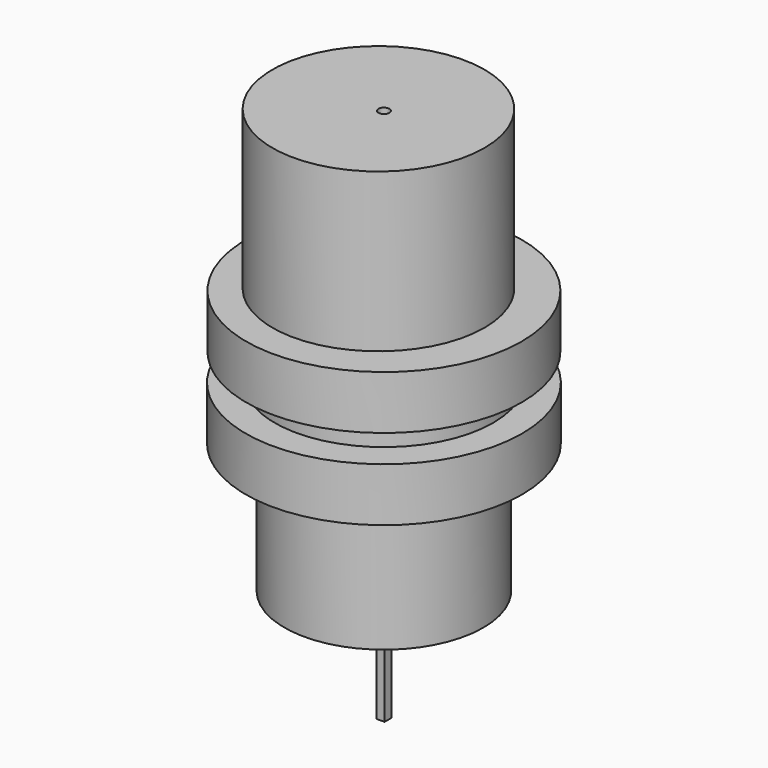
from build123d import *

# Parameters (mm, degrees)
F0_R      = 65.437534
F1_DEPTH  = 25.4
F2_R      = 51.719022
F3_DEPTH  = 12.929184
F4_R      = 51.719022
F4_R_2    = 2.585787
F4_R_3    = 65.262229
F5_DEPTH  = 25.4
F6_R      = 47.073504
F7_DEPTH  = 61.468
F8_R      = 50.226774
F8_R_2    = 2.585787
F9_DEPTH  = 74.93
F11_W     = 9.235289
F11_H     = 11.885514
F10_R     = 47.073504
F12_DEPTH = 1.524
F13_W     = 3.887014
F13_H     = 3.9601
F14_DEPTH = 53.34


with BuildPart() as f1:
    # F0 (on Top) → F1 (new body)
    with BuildSketch(Plane.XY):
        Circle(F0_R)
    extrude(amount=F1_DEPTH)

    # F2 (on face) → F3 (join)
    with BuildSketch(Plane.XY.offset(25.4)):
        Circle(F2_R)
    extrude(amount=F3_DEPTH)

    # F4 (on face) → F5 (join)
    with BuildSketch(Plane.XY.offset(38.329184)):
        Circle(F4_R)
        Circle(F4_R_2, mode=Mode.SUBTRACT)
        Circle(F4_R_3)
        Circle(F4_R_2, mode=Mode.SUBTRACT)
    extrude(amount=F5_DEPTH)

    # F6 (on face) → F7 (join)
    with BuildSketch(Plane(origin=(0, 0, 0), x_dir=(1, 0, 0), z_dir=(0, 0, -1))):
        Circle(F6_R)
    extrude(amount=F7_DEPTH)

    # F8 (on face) → F9 (join)
    with BuildSketch(Plane.XY.offset(63.729184)):
        with Locations((-2.585787, 0)):
            Circle(F8_R)
        Circle(F8_R_2, mode=Mode.SUBTRACT)
    extrude(amount=F9_DEPTH)

    # F11 (on face) + F10 (on face) → F12 (join)
    with BuildSketch(Plane(origin=(0, 0, -61.468), x_dir=(1, 0, 0), z_dir=(0, 0, -1))):
        with Locations((0.111258, -0.588183)):
            Rectangle(F11_W, F11_H)
    with BuildSketch(Plane(origin=(0, 0, -61.468), x_dir=(1, 0, 0), z_dir=(0, 0, -1))):
        Circle(F10_R)
    extrude(amount=-F12_DEPTH)

    # F13 (on face) → F14 (join)
    with BuildSketch(Plane(origin=(0, 0, -61.468), x_dir=(1, 0, 0), z_dir=(0, 0, -1))):
        with Locations((-0.249897, -0.261744)):
            Rectangle(F13_W, F13_H)
    extrude(amount=F14_DEPTH)


solid = f1.part
